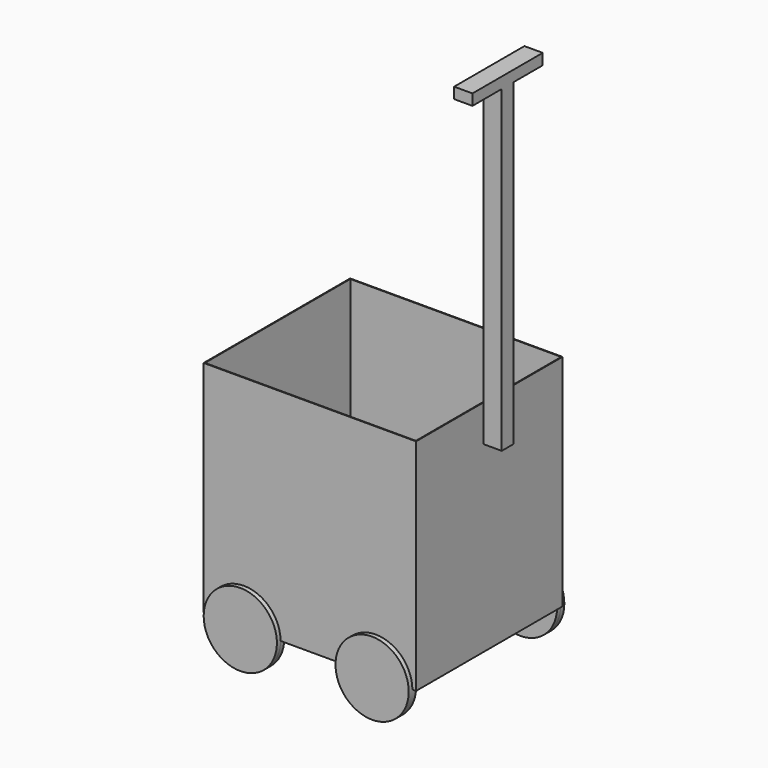
from build123d import *

# Parameters (mm, degrees)
F0_W      = 580
F0_H      = 600
F1_DEPTH  = 500
F2_W      = 576
F2_H      = 496
F3_DEPTH  = 500
F4_W      = 40
F4_H      = 800
F4_H_2    = 100
F5_DEPTH  = 50
F6_W      = 50
F6_H      = 100
F7_DEPTH  = 30
F9_DEPTH  = 12.5
F11_DEPTH = 12.5


with BuildPart() as f1:
    # F0 (on Front) → F1 (new body)
    with BuildSketch(Plane.XZ):
        with Locations((1.860235, 108.586439)):
            Rectangle(F0_W, F0_H)
    extrude(amount=F1_DEPTH)

    # F2 (on face) → F3 (cut)
    with BuildSketch(Plane.XY.offset(408.586439)):
        with Locations((1.860235, -250)):
            Rectangle(F2_W, F2_H)
    extrude(amount=-F3_DEPTH, mode=Mode.SUBTRACT)

    # F4 (on face) → F5 (join)
    with BuildSketch(Plane.YZ.offset(291.860235)):
        with Locations((-250, 808.586439)):
            Rectangle(F4_W, F4_H)
        with Locations((-250, 358.586439)):
            Rectangle(F4_W, F4_H_2)
    extrude(amount=F5_DEPTH)

    # F6 (on face) → F7 (join)
    with BuildSketch(Plane.XY.offset(1208.586439)):
        with Locations((316.860235, -320)):
            Rectangle(F6_W, F6_H)
        with Locations((316.860235, -180)):
            Rectangle(F6_W, F6_H)
    extrude(amount=-F7_DEPTH)

    # F8 (on face) → F9 (join, symmetric)
    with BuildSketch(Plane.XZ.offset(500)):
        with BuildLine():
            Line((-278.139765, -191.413561), (-78.139765, -191.413561))
            ThreePointArc((-78.139765, -191.413561), (-178.139765, -91.413561), (-278.139765, -191.413561))
        make_face()
        with BuildLine():
            ThreePointArc((-278.139765, -191.413561), (-178.139765, -291.413561), (-78.139765, -191.413561))
            Line((-78.139765, -191.413561), (-278.139765, -191.413561))
        make_face()
        with BuildLine():
            Line((281.860235, -191.413561), (81.860235, -191.413561))
            ThreePointArc((81.860235, -191.413561), (181.860235, -291.413561), (281.860235, -191.413561))
        make_face()
        with BuildLine():
            ThreePointArc((281.860235, -191.413561), (181.860235, -91.413561), (81.860235, -191.413561))
            Line((81.860235, -191.413561), (281.860235, -191.413561))
        make_face()
    extrude(amount=F9_DEPTH, both=True)

    # F10 (on face) → F11 (join, symmetric)
    with BuildSketch(Plane(origin=(0, 0, 0), x_dir=(-1, 0, 0), z_dir=(0, 1, 0))):
        with BuildLine():
            Line((-286.860235, -191.413561), (-86.860235, -191.413561))
            ThreePointArc((-86.860235, -191.413561), (-186.860235, -91.413561), (-286.860235, -191.413561))
        make_face()
        with BuildLine():
            ThreePointArc((-286.860235, -191.413561), (-186.860235, -291.413561), (-86.860235, -191.413561))
            Line((-86.860235, -191.413561), (-286.860235, -191.413561))
        make_face()
        with BuildLine():
            Line((283.139765, -191.413561), (83.139765, -191.413561))
            ThreePointArc((83.139765, -191.413561), (183.139765, -291.413561), (283.139765, -191.413561))
        make_face()
        with BuildLine():
            ThreePointArc((283.139765, -191.413561), (183.139765, -91.413561), (83.139765, -191.413561))
            Line((83.139765, -191.413561), (283.139765, -191.413561))
        make_face()
    extrude(amount=F11_DEPTH, both=True)


solid = f1.part
